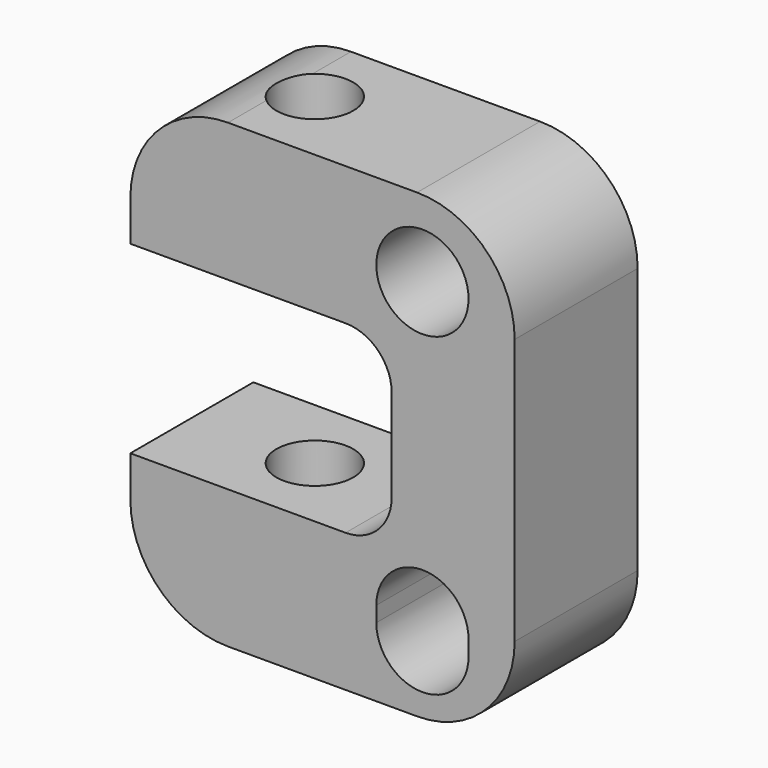
from build123d import *

# Parameters (mm, degrees)
SKETCH091_R          = 3
PAD031_DEPTH         = 10
SKETCH092_R          = 2.5
POCKET026_DEPTH      = 15.001
POCKET026_DEPTH_BACK = -15.001


with BuildPart() as part:
    # Sketch091 → Pad031 (new body)
    with BuildSketch(Plane.XZ):
        with BuildLine():
            Line((-2.65, 15), (9.65, 15))
            ThreePointArc((16, 8.65), (14.140128, 13.140128), (9.65, 15))
            Line((16, 8.65), (16, -8.65))
            ThreePointArc((9.65, -15), (14.140128, -13.140128), (16, -8.65))
            Line((9.65, -15), (-2.65, -15))
            ThreePointArc((-9, -8.65), (-7.140128, -13.140128), (-2.65, -15))
            Line((-9, -8.65), (-9, -6))
            Line((5, -6), (-9, -6))
            ThreePointArc((5, -6), (7.12132, -5.12132), (8, -3))
            Line((8, 3), (8, -3))
            ThreePointArc((8, 3), (7.12132, 5.12132), (5, 6))
            Line((-9, 6), (5, 6))
            Line((-9, 6), (-9, 8.65))
            ThreePointArc((-2.65, 15), (-7.140128, 13.140128), (-9, 8.65))
        make_face()
        with Locations((10, 10)):
            Circle(SKETCH091_R, mode=Mode.SUBTRACT)
        with BuildLine():
            ThreePointArc((13, -9.5), (10, -6.5), (7, -9.5))
            Line((7, -9.5), (7, -10.5))
            ThreePointArc((7, -10.5), (10, -13.5), (13, -10.5))
            Line((13, -9.5), (13, -10.5))
        make_face(mode=Mode.SUBTRACT)
    extrude(amount=PAD031_DEPTH)

    # Sketch092 → Pocket026 (cut, two sides)
    with BuildSketch(Plane.XY) as pocket026_sk:
        with Locations((-1, -5)):
            Circle(SKETCH092_R)
    extrude(amount=-POCKET026_DEPTH, mode=Mode.SUBTRACT)
    extrude(pocket026_sk.sketch, amount=-POCKET026_DEPTH_BACK, mode=Mode.SUBTRACT)


solid = part.part
